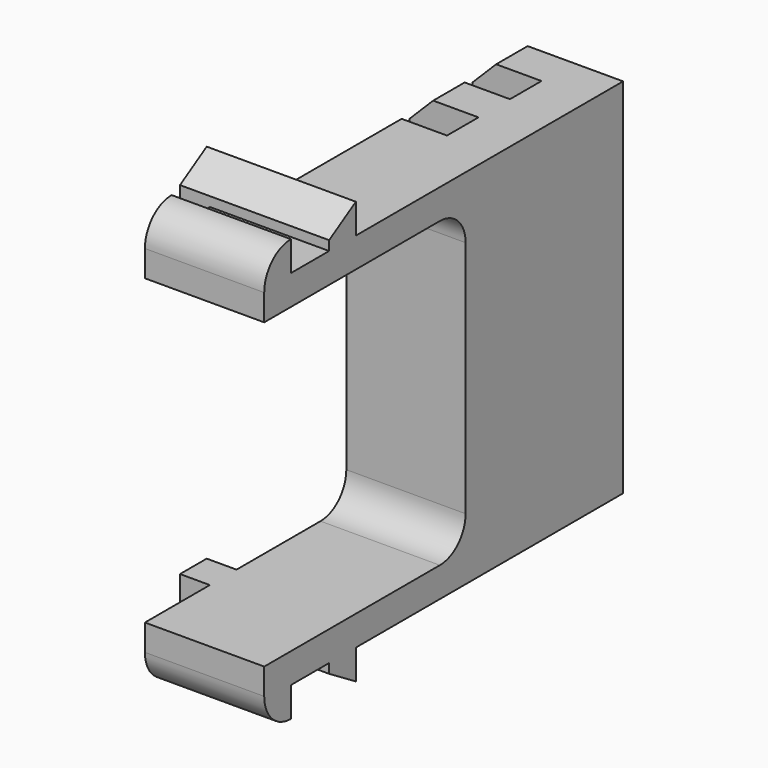
from build123d import *

# Parameters (mm, degrees)
PAD017_DEPTH              = 5
PAD020_DEPTH              = 6.25
SKETCH038_W               = 10
SKETCH038_H               = 1.65
PAD021_DEPTH              = 5
SKETCH079_W               = 15.2
SKETCH079_H               = 1.65
PAD051_DEPTH              = 2.1
SKETCH080_W               = 7.1
SKETCH080_H               = 1.65
PAD052_DEPTH              = 5
SKETCH081_W               = 15.2
SKETCH081_H               = 1.65
PAD053_DEPTH              = 5
LINEARPATTERN018_COUNT    = 2
LINEARPATTERN018_PITCH    = 3.3
CHAMFER008_SIZE           = 1
MIRROR007_PLACEMENT_ANGLE = 90


with BuildPart() as obj1:
    # Sketch034 → Pad017 (new body)
    with BuildSketch(Plane.XY):
        with BuildLine():
            Line((-1.35, -1.8), (-1.35, 6))
            ThreePointArc((0, 7.35), (-0.954594, 6.954594), (-1.35, 6))
            Line((0, 9), (0, 7.35))
            Line((-2.6, 9), (0, 9))
            Line((-2.6, -1.8), (-2.6, 9))
            Line((-3.85, -1.8), (-2.6, -1.8))
            ThreePointArc((-3.85, -1.8), (-3.439949, -2.789949), (-2.45, -3.2))
            Line((-1.35, -3.2), (-2.45, -3.2))
            Line((-1.35, -1.8), (-1.35, -3.2))
        make_face()
    extrude(amount=PAD017_DEPTH)

    # Sketch037 → Pad020 (join)
    with BuildSketch(Plane.XY):
        Polygon((-1.35, 0.2), (-1.35, 1.6), (-2.6, 1.6), (-3.85, 1.6), (-3, 0.2), (-2.6, 0.2), align=None)
    extrude(amount=PAD020_DEPTH)


with BuildPart() as body027:
    # Mirror002: instance of _obj1
    add(obj1.part.mirror(Plane(origin=(5, 0, 0), x_dir=(0, 1, 0), z_dir=(-1, 0, 0))))

    # Fusion002: union _obj1
    add(obj1.part)


with BuildPart() as body027_1:
    # Clone003 placement: moved
    add(body027.part.moved(Location((-5, 0, 0))))

    # Sketch038 → Pad021 (new body)
    with BuildSketch(Plane.XY):
        with Locations((0, 8.175)):
            Rectangle(SKETCH038_W, SKETCH038_H)
    extrude(amount=PAD021_DEPTH)

    # Sketch079 → Pad051 (new body)
    with BuildSketch(Plane.XY):
        with Locations((0, 9.825)):
            Rectangle(SKETCH079_W, SKETCH079_H)
    pad051 = extrude(amount=PAD051_DEPTH)

    # Sketch080 → Pad052 (join)
    with BuildSketch(Plane.XY):
        with Locations((4.05, 9.825)):
            Rectangle(SKETCH080_W, SKETCH080_H)
    pad052 = extrude(amount=PAD052_DEPTH)

    # Sketch081 → Pad053 (join)
    with BuildSketch(Plane.XY):
        with Locations((0, 11.475)):
            Rectangle(SKETCH081_W, SKETCH081_H)
    pad053 = extrude(amount=PAD053_DEPTH)

    # LinearPattern018: Pad053, Pad052, Pad051 ×2
    with Locations(*[(0, i * LINEARPATTERN018_PITCH, 0) for i in range(1, LINEARPATTERN018_COUNT)]):
        add(pad053)
        add(pad052)
        add(pad051)

    # Chamfer008
    chamfer008_edges = [body027_1.edges().sort_by_distance(p)[0] for p in [
        (-7.6, 5.3, 5),
        (-7.6, 11.475, 5),
        (-7.6, 14.775, 5),
    ]]
    chamfer(chamfer008_edges, length=CHAMFER008_SIZE)


with BuildPart() as mirror007:
    # Mirror007: instance of Body027
    add(body027_1.part.mirror(Plane(origin=(0, 0, 0), x_dir=(0, -1, 0), z_dir=(1, 0, 0))))


with BuildPart() as mirror007_1:
    # Mirror007 placement: moved
    add(mirror007.part.moved(Location((2.5, 0, 7.6))).rotate(Axis((2.5, 0, 7.6), (0, -1, 0)), MIRROR007_PLACEMENT_ANGLE))


solid = mirror007_1.part
